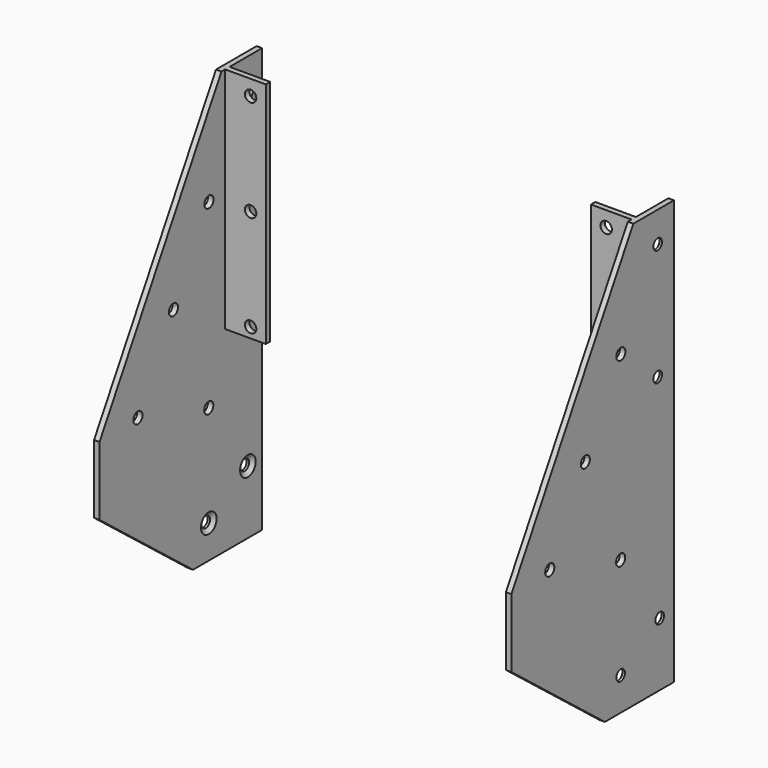
from build123d import *

# Parameters (mm, degrees)
F1_DEPTH       = 3.429
F3_D           = 6.7564
F3_CSINK_D     = 12.192
F3_CSINK_ANGLE = 110
F4_D           = 7.14375
F5_W           = 3.429
F5_H           = 142.875
F6_DEPTH       = 25.4
F8_D           = 7.14375


with BuildPart() as f1:
    # F0 (on Right) → F1 (new body)
    with BuildSketch(Plane.YZ):
        Polygon((0, -265.1125), (0, 0), (-31.75, 0), (-127, -165.1), (-127, -207.9625), (-53.975, -265.1125), align=None)
    extrude(amount=-F1_DEPTH)

    # F3 (through all)
    with Locations(Plane.YZ):
        with Locations((-12.7, -19.05), (-12.7, -92.075), (-11.1125, -225.425), (-41.656, -244.475)):
            CounterSinkHole(F3_D / 2, F3_CSINK_D / 2, counter_sink_angle=F3_CSINK_ANGLE)

    # F4 (through all)
    with Locations(Plane.YZ):
        with Locations((-41.507803, -67.732997), (-69.247091, -115.823172), (-97.01292, -163.950608), (-41.656, -180.975)):
            Hole(F4_D / 2)

    # F5 (on Right) → F6 (join)
    with BuildSketch(Plane.YZ):
        with Locations((-27.1145, -71.4375)):
            Rectangle(F5_W, F5_H)
    extrude(amount=F6_DEPTH)

    # F8 (through all)
    with Locations(Plane(origin=(0, -25.4, 0), x_dir=(-1, 0, 0), z_dir=(0, 1, 0))):
        with Locations((-15.875, -9.525), (-15.875, -73.025), (-15.875, -136.525)):
            Hole(F8_D / 2)


with BuildPart() as f10_1:
    # F10: instance of F1
    add(f1.part.mirror(Plane.YZ.offset(127)))


solid = Compound([f1.part, f10_1.part])
